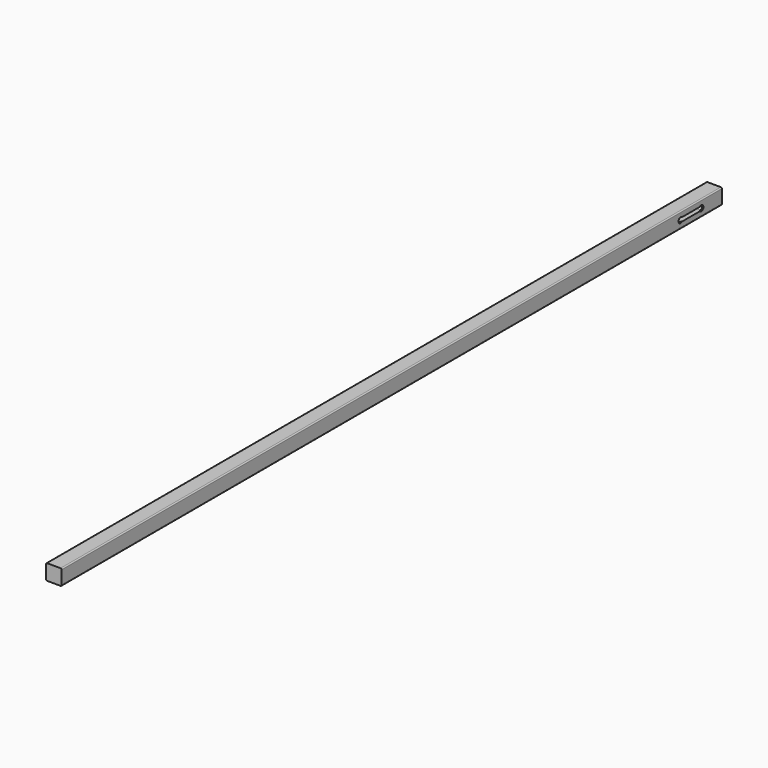
from build123d import *

# Parameters (mm, degrees)
F1_DEPTH       = 4876.8
F3_D           = 22.86
F3_CSINK_D     = 31.75
F3_CSINK_ANGLE = 82
F4_D           = 22.86
F4_CSINK_D     = 31.75
F4_CSINK_ANGLE = 82
F5_W           = 152.4
F5_H           = 22.86
F6_DEPTH       = 101.6


with BuildPart() as f1:
    # F0 (on Front) → F1 (new body)
    with BuildSketch(Plane.XZ):
        with BuildLine():
            Line((-15.821142, 62.533787), (-95.196142, 62.533787))
            ThreePointArc((-95.196142, 62.533787), (-99.686271, 60.673915), (-101.546142, 56.183787))
            Line((-101.546142, 56.183787), (-101.546142, -23.191213))
            ThreePointArc((-101.546142, -23.191213), (-99.686271, -27.681341), (-95.196142, -29.541213))
            Line((-95.196142, -29.541213), (-15.821142, -29.541213))
            ThreePointArc((-15.821142, -29.541213), (-11.331014, -27.681341), (-9.471142, -23.191213))
            Line((-9.471142, -23.191213), (-9.471142, 56.183787))
            ThreePointArc((-9.471142, 56.183787), (-11.331014, 60.673915), (-15.821142, 62.533787))
        make_face()
    extrude(amount=F1_DEPTH)

    # F3 (through all)
    with Locations(Plane.YZ.offset(-9.471142)):
        with Locations((-304.8, 16.496287)):
            CounterSinkHole(F3_D / 2, F3_CSINK_D / 2, counter_sink_angle=F3_CSINK_ANGLE)

    # F4 (through all)
    with Locations(Plane.YZ.offset(-9.471142)):
        with Locations((-152.4, 16.496287)):
            CounterSinkHole(F4_D / 2, F4_CSINK_D / 2, counter_sink_angle=F4_CSINK_ANGLE)

    # F5 (on face) → F6 (cut)
    with BuildSketch(Plane.YZ.offset(-9.471142)):
        with Locations((-228.6, 16.496287)):
            Rectangle(F5_W, F5_H)
    extrude(amount=-F6_DEPTH, mode=Mode.SUBTRACT)


solid = f1.part
